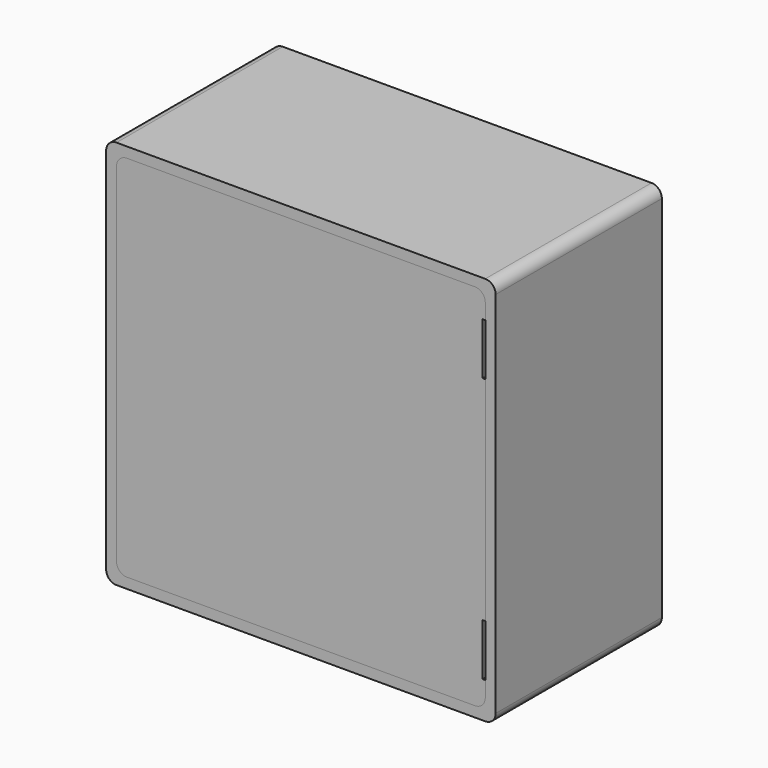
from build123d import *

# Parameters (mm, degrees)
F1_DEPTH = 400
F2_DEPTH = 380
F3_DEPTH = 20
F4_W     = 5
F4_H     = 100
F4_W_2   = 5.0038
F5_DEPTH = 27.94


with BuildPart() as f1:
    # F0 (on Front) → F1 (new body)
    with BuildSketch(Plane.XZ):
        with BuildLine():
            ThreePointArc((-20, 0), (-14.142136, -14.142136), (0, -20))
            Line((0, -20), (710, -20))
            ThreePointArc((710, -20), (724.142136, -14.142136), (730, 0))
            Line((730, 0), (730, 710))
            ThreePointArc((730, 710), (724.142136, 724.142136), (710, 730))
            Line((710, 730), (0, 730))
            ThreePointArc((0, 730), (-14.142136, 724.142136), (-20, 710))
            Line((-20, 710), (-20, 0))
        make_face()
        with BuildLine():
            ThreePointArc((0, 690), (5.857864, 704.142136), (20, 710))
            Line((20, 710), (690, 710))
            ThreePointArc((690, 710), (704.142136, 704.142136), (710, 690))
            Line((710, 690), (710, 20))
            ThreePointArc((710, 20), (704.142136, 5.857864), (690, 0))
            Line((690, 0), (20, 0))
            ThreePointArc((20, 0), (5.857864, 5.857864), (0, 20))
            Line((0, 20), (0, 690))
        make_face(mode=Mode.SUBTRACT)
        with BuildLine():
            Line((690, 710), (20, 710))
            ThreePointArc((20, 710), (5.857864, 704.142136), (0, 690))
            Line((0, 690), (0, 20))
            ThreePointArc((0, 20), (5.857864, 5.857864), (20, 0))
            Line((20, 0), (690, 0))
            ThreePointArc((690, 0), (704.142136, 5.857864), (710, 20))
            Line((710, 20), (710, 690))
            ThreePointArc((710, 690), (704.142136, 704.142136), (690, 710))
        make_face()
    extrude(amount=-F1_DEPTH)

    # F0 (on Front) → F2 (cut)
    with BuildSketch(Plane.XZ):
        with BuildLine():
            Line((690, 710), (20, 710))
            ThreePointArc((20, 710), (5.857864, 704.142136), (0, 690))
            Line((0, 690), (0, 20))
            ThreePointArc((0, 20), (5.857864, 5.857864), (20, 0))
            Line((20, 0), (690, 0))
            ThreePointArc((690, 0), (704.142136, 5.857864), (710, 20))
            Line((710, 20), (710, 690))
            ThreePointArc((710, 690), (704.142136, 704.142136), (690, 710))
        make_face()
    extrude(amount=-F2_DEPTH, mode=Mode.SUBTRACT)


with BuildPart() as f3:
    # F0 (on Front) → F3 (new body)
    with BuildSketch(Plane.XZ):
        with BuildLine():
            Line((690, 710), (20, 710))
            ThreePointArc((20, 710), (5.857864, 704.142136), (0, 690))
            Line((0, 690), (0, 20))
            ThreePointArc((0, 20), (5.857864, 5.857864), (20, 0))
            Line((20, 0), (690, 0))
            ThreePointArc((690, 0), (704.142136, 5.857864), (710, 20))
            Line((710, 20), (710, 690))
            ThreePointArc((710, 690), (704.142136, 704.142136), (690, 710))
        make_face()
    extrude(amount=-F3_DEPTH)

    # F4 (on face) → F5 (cut)
    with BuildSketch(Plane.XZ):
        with Locations((707.5, 610)):
            Rectangle(F4_W, F4_H)
        with Locations((707.4981, 100)):
            Rectangle(F4_W_2, F4_H)
    extrude(amount=-F5_DEPTH, mode=Mode.SUBTRACT)


solid = Compound([f1.part, f3.part])
